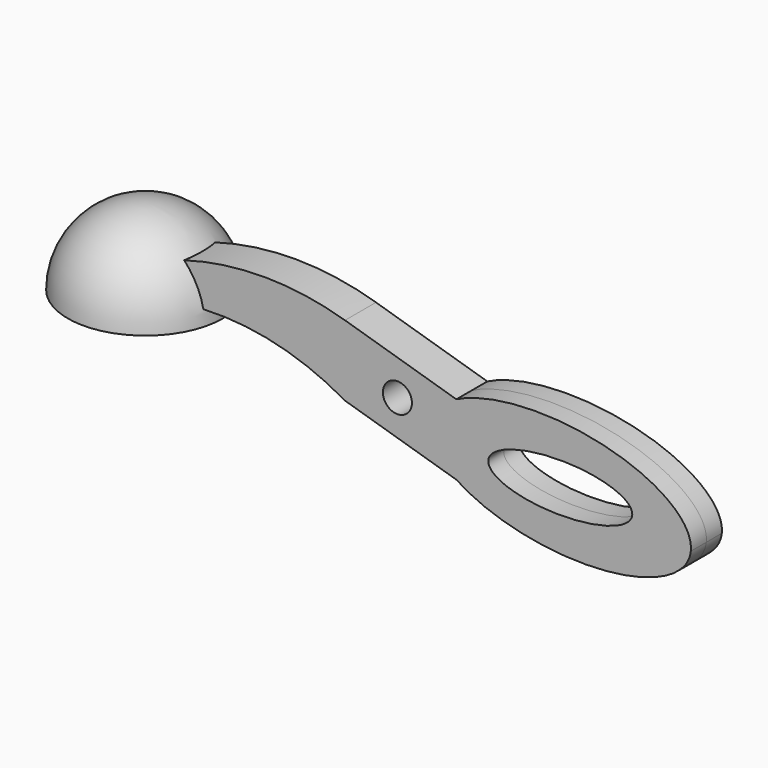
from build123d import *

# Parameters (mm, degrees)
F0_R     = 9.525
F1_DEPTH = 12.7


with BuildPart() as f1:
    # F0 (on Front) → F1 (new body, symmetric)
    with BuildSketch(Plane.XZ):
        with BuildLine():
            Line((38.646885, 11.620991), (-34.34662, 33.493081))
            ThreePointArc((-34.34662, 33.493081), (-106.56612, 40.354903), (-175.911933, 19.05))
            Line((-175.911933, 19.05), (-175.911933, 0))
            ThreePointArc((-175.911933, 0), (-103.701878, 9.198007), (-34.34662, -12.909541))
            Line((-34.34662, -12.909541), (38.646885, -34.781631))
            add(Edge.make_bspline(
                [(38.646885, 11.620991), (-0.974272, -8.30578), (38.646885, -34.781631)],
                knots=[2.535671, 2.535671, 2.535671, 3.838677, 3.838677, 3.838677], degree=2, weights=[1, 0.795173, 1]))
        make_face()
        Circle(F0_R, mode=Mode.SUBTRACT)
        with BuildLine():
            add(Edge.make_bspline(
                [(192.374031, -26.028712), (204.864127, 95.217063), (38.646885, 11.620991)],
                knots=[0, 0, 0, 2.535671, 2.535671, 2.535671], degree=2, weights=[1, 0.298348, 1]))
            add(Edge.make_bspline(
                [(38.646885, 11.620991), (-0.974272, -8.30578), (38.646885, -34.781631)],
                knots=[2.535671, 2.535671, 2.535671, 3.838677, 3.838677, 3.838677], degree=2, weights=[1, 0.795173, 1]))
            add(Edge.make_bspline(
                [(38.646885, -34.781631), (181.629834, -130.326426), (192.374031, -26.028712)],
                knots=[3.838677, 3.838677, 3.838677, 6.283185, 6.283185, 6.283185], degree=2, weights=[1, 0.341528, 1]))
        make_face()
        with BuildLine():
            add(Edge.make_bspline(
                [(153.992067, -17.211253), (153.992067, 10.285053), (83.173736, -3.4631), (12.355405, -17.211253), (83.173736, -30.959407), (153.992067, -44.70756), (153.992067, -17.211253)],
                knots=[0, 0, 0, 2.094395, 2.094395, 4.18879, 4.18879, 6.283185, 6.283185, 6.283185], degree=2, weights=[1, 0.5, 1, 0.5, 1, 0.5, 1]))
        make_face(mode=Mode.SUBTRACT)
    extrude(amount=F1_DEPTH, both=True)

    # F2 (on Front) → F3 (revolve)
    with BuildSketch(Plane.XZ):
        with BuildLine():
            Line((-175.456703, 50.8), (-175.456703, 48.26))
            ThreePointArc((-175.456703, 48.26), (-141.331729, 34.124973), (-127.196703, 0))
            Line((-127.196703, 0), (-124.656703, 0))
            ThreePointArc((-124.656703, 0), (-139.535678, 35.921024), (-175.456703, 50.8))
        make_face()
    revolve(axis=Axis((-175.456703, 0, 31.504199), (0, 0, 1)))


solid = f1.part
